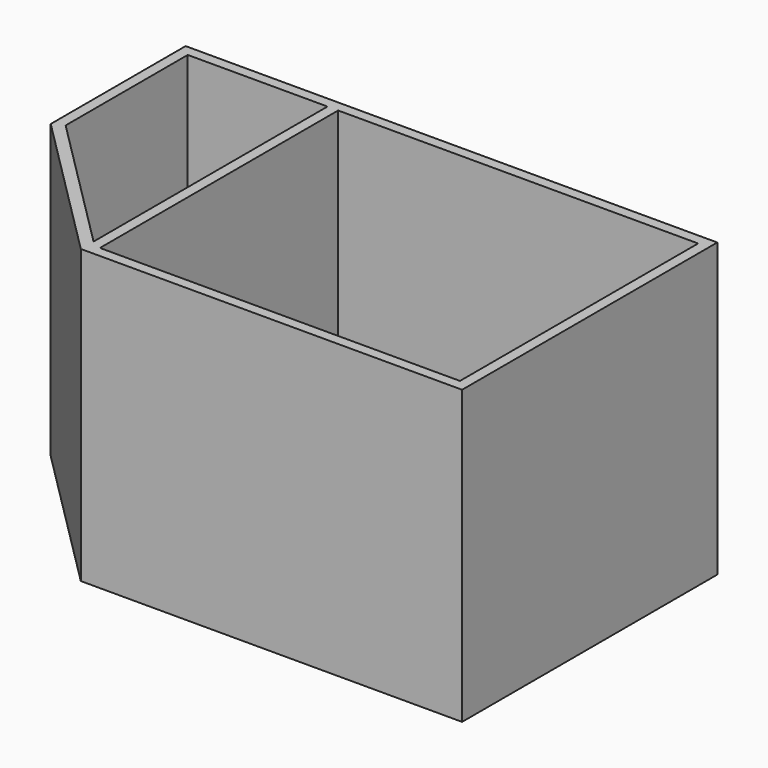
from build123d import *

# Parameters (mm, degrees)
PAD_DEPTH    = 550
SKETCH001_W  = 677.16
SKETCH001_H  = 560
POCKET_DEPTH = 530


with BuildPart() as part:
    # Sketch → Pad (new body)
    with BuildSketch(Plane.XY):
        Polygon((-500, 300), (500, 300), (500, -300), (-217.157288, -300), (-500, -17.157288), align=None)
    extrude(amount=PAD_DEPTH)

    # Sketch001 → Pocket (cut)
    with BuildSketch(Plane.XY.offset(551)):
        with Locations((141.42, 0)):
            Rectangle(SKETCH001_W, SKETCH001_H)
        Polygon((-480, 280), (-217.16, 280), (-217.16, -270), (-480, -7.16), align=None)
    extrude(amount=-POCKET_DEPTH, mode=Mode.SUBTRACT)


solid = part.part
